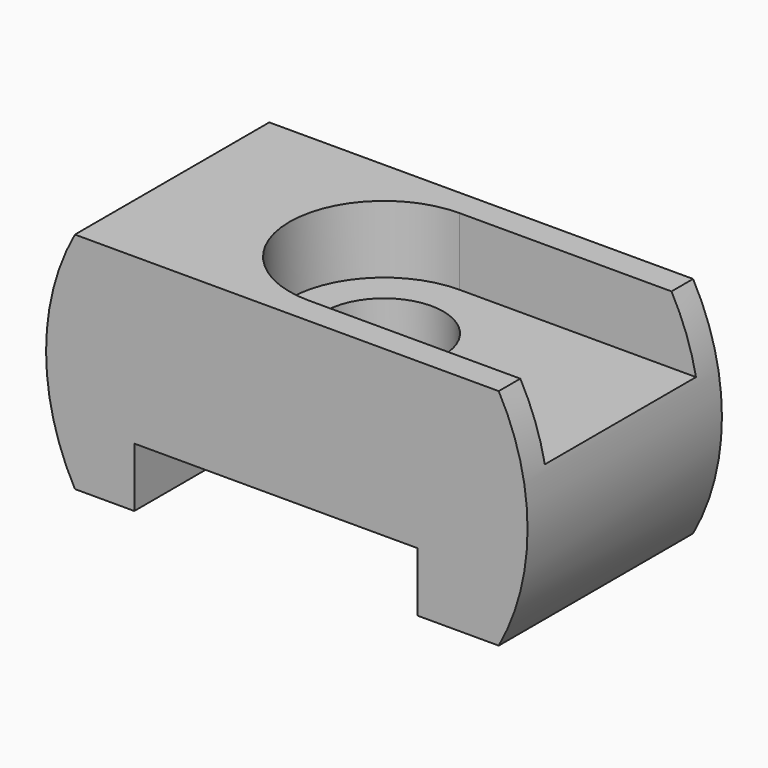
from build123d import *

# Parameters (mm, degrees)
F0_W      = 157
F0_H      = 90
F1_DEPTH  = 83
F3_DEPTH  = 90
F5_DEPTH  = 557
F6_R      = 22
F7_DEPTH  = 25
F7_FACE_R = 22
F8_DEPTH  = 185


with BuildPart() as f1:
    # F0 (on Top) → F1 (new body)
    with BuildSketch(Plane.XY):
        Rectangle(F0_W, F0_H)
    extrude(amount=F1_DEPTH)

    # F2 (on face) → F3 (join, through all)
    with BuildSketch(Plane.XZ.offset(45)):
        with BuildLine():
            Line((-78.5, 0), (-78.5, 83))
            ThreePointArc((-78.5, 83), (-89.175701, 41.5), (-78.5, 0))
        make_face()
        with BuildLine():
            ThreePointArc((78.5, 0), (89.175701, 41.5), (78.5, 83))
            Line((78.5, 83), (78.5, 0))
        make_face()
    extrude(amount=-F3_DEPTH)

    # F4 (on face) → F5 (cut)
    with BuildSketch(Plane.XZ.offset(45)):
        Polygon((-56.5, 0), (-4, 0), (48.5, 0), (48.5, 22), (-56.5, 22), align=None)
    extrude(amount=-F5_DEPTH, mode=Mode.SUBTRACT)

    # F6 (on face) → F7 (cut)
    with BuildSketch(Plane.XY.offset(83)):
        with BuildLine():
            ThreePointArc((0, -35), (24.748737, -24.748737), (35, 0))
            ThreePointArc((35, 0), (24.748737, 24.748737), (0, 35))
            ThreePointArc((0, 35), (-35, 0), (0, -35))
        make_face()
        Circle(F6_R, mode=Mode.SUBTRACT)
        with BuildLine():
            ThreePointArc((0, 35), (24.748737, 24.748737), (35, 0))
            ThreePointArc((35, 0), (24.748737, -24.748737), (0, -35))
            Line((0, -35), (78.5, -35))
            Line((78.5, -35), (78.5, 35))
            Line((78.5, 35), (0, 35))
        make_face()
        Polygon((93.384914, 35), (78.5, 35), (78.5, -35), (92.262775, -35), (93.384914, -35.542417), align=None)
    extrude(amount=-F7_DEPTH, mode=Mode.SUBTRACT)

    # F7_face (on face) → F8 (cut)
    with BuildSketch(Plane.XY.offset(83)):
        Circle(F7_FACE_R)
    extrude(amount=-F8_DEPTH, mode=Mode.SUBTRACT)


solid = f1.part
